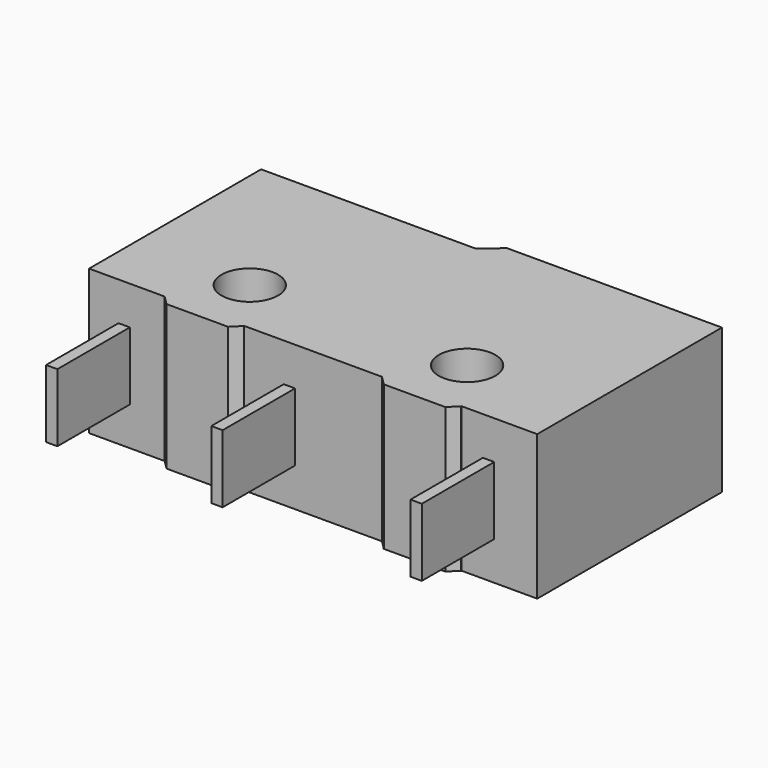
from build123d import *

# Parameters (mm, degrees)
CYLINDER021_R          = 1.25
CYLINDER021_DEPTH      = 10
CYLINDER021_ROLL_ANGLE = 90
PAD018_DEPTH           = 6.4
BOX034_W               = 0.5
BOX034_H               = 3
BOX034_DEPTH           = 4
BOX032_W               = 0.5
BOX032_H               = 3
BOX032_DEPTH           = 4
BOX033_W               = 0.5
BOX033_H               = 3
BOX033_DEPTH           = 4
BOX035_W               = 3.5
BOX035_H               = 6.4
BOX035_DEPTH           = 0.4
CHAMFER017_SIZE        = 0.39
CHAMFER016_SIZE        = 0.39
BOX031_W               = 3.5
BOX031_H               = 6.4
BOX031_DEPTH           = 0.4
CHAMFER018_SIZE        = 0.39
PAD017_DEPTH           = 3.8
FUSION020_ROLL_ANGLE   = -90


with BuildPart() as cylinder021:
    # Cylinder021 → Cylinder021 (new body)
    with BuildSketch(Plane.XY):
        Circle(CYLINDER021_R)
    extrude(amount=CYLINDER021_DEPTH)


with BuildPart() as cylinder021_1:
    # Cylinder021 roll: moved
    add(cylinder021.part.rotate(Axis((0, 0, 0), (1, 0, 0)), CYLINDER021_ROLL_ANGLE))


with BuildPart() as cylinder021_2:
    # Cylinder021 placement: moved
    add(cylinder021_1.part.moved(Location((-4.8, 2, 2.5))))


with BuildPart() as part_mirroring005:
    # Part__Mirroring005: instance of Cylinder021
    add(cylinder021_2.part.mirror(Plane(origin=(0, 0, 0), x_dir=(0, -1, 0), z_dir=(1, 0, 0))))


with BuildPart() as cut029:
    # Sketch032 → Pad018 (new body)
    with BuildSketch(Plane.XZ):
        Polygon((-9.9, 0), (9.9, 0), (9.9, 9.5), (0.4, 9.5), (-0.4, 10.2), (-9.9, 10.2), align=None)
    extrude(amount=PAD018_DEPTH)

    # Cut028: cut Cylinder021
    add(cylinder021_2.part, mode=Mode.SUBTRACT)

    # Cut029: cut Part__Mirroring005
    add(part_mirroring005.part, mode=Mode.SUBTRACT)


with BuildPart() as kostka020:
    # Box034 → Box034 (new body)
    with BuildSketch(Plane(origin=(0.8, -4.7, -4), x_dir=(1, 0, 0), z_dir=(0, 0, 1))):
        with Locations((0.25, 1.5)):
            Rectangle(BOX034_W, BOX034_H)
    extrude(amount=BOX034_DEPTH)


with BuildPart() as kostka018:
    # Box032 → Box032 (new body)
    with BuildSketch(Plane(origin=(8.1, -4.7, -4), x_dir=(1, 0, 0), z_dir=(0, 0, 1))):
        with Locations((0.25, 1.5)):
            Rectangle(BOX032_W, BOX032_H)
    extrude(amount=BOX032_DEPTH)


with BuildPart() as fusion019:
    # Box033 → Box033 (new body)
    with BuildSketch(Plane(origin=(-8, -4.7, -4), x_dir=(1, 0, 0), z_dir=(0, 0, 1))):
        with Locations((0.25, 1.5)):
            Rectangle(BOX033_W, BOX033_H)
    extrude(amount=BOX033_DEPTH)

    # Fusion019: union Kostka020, Kostka018
    add(kostka020.part)
    add(kostka018.part)


with BuildPart() as chamfer016:
    # Box035 → Box035 (new body)
    with BuildSketch(Plane(origin=(-6.55, -6.4, -0.4), x_dir=(1, 0, 0), z_dir=(0, 0, 1))):
        with Locations((1.75, 3.2)):
            Rectangle(BOX035_W, BOX035_H)
    extrude(amount=BOX035_DEPTH)

    # Chamfer017
    chamfer017_edges = [chamfer016.edges().sort_by_distance(p)[0] for p in [
        (-6.55, -3.2, -0.4),
    ]]
    chamfer(chamfer017_edges, length=CHAMFER017_SIZE)

    # Chamfer016
    chamfer016_edges = [chamfer016.edges().sort_by_distance(p)[0] for p in [
        (-3.05, -3.2, -0.4),
    ]]
    chamfer(chamfer016_edges, length=CHAMFER016_SIZE)


with BuildPart() as fusion021:
    # Box031 → Box031 (new body)
    with BuildSketch(Plane(origin=(3.05, -6.4, -0.4), x_dir=(1, 0, 0), z_dir=(0, 0, 1))):
        with Locations((1.75, 3.2)):
            Rectangle(BOX031_W, BOX031_H)
    extrude(amount=BOX031_DEPTH)

    # Chamfer018
    chamfer018_edges = [fusion021.edges().sort_by_distance(p)[0] for p in [
        (3.05, -3.2, -0.4),
        (6.55, -3.2, -0.4),
    ]]
    chamfer(chamfer018_edges, length=CHAMFER018_SIZE)

    # Fusion021: union Chamfer016
    add(chamfer016.part)


with BuildPart() as fusion020:
    # Sketch029 → Pad017 (new body)
    with BuildSketch(Plane.XZ):
        Polygon((-7.199301, 11.401983), (9.800699, 11.401983), (9.800699, 11.201983), (-6.999301, 11.201983), (-6.999301, 10.201983), (-7.199301, 10.201983), align=None)
    extrude(amount=PAD017_DEPTH)


with BuildPart() as fusion020_1:
    # Body005 placement: moved
    add(fusion020.part.moved(Location((0, -1.3, 0))))

    # Fusion020: union Cut029, Fusion019, Fusion021
    add(cut029.part)
    add(fusion019.part)
    add(fusion021.part)


with BuildPart() as fusion020_2:
    # Fusion020 roll: moved
    add(fusion020_1.part.rotate(Axis((0, 0, 0), (1, 0, 0)), FUSION020_ROLL_ANGLE))


with BuildPart() as fusion020_3:
    # Fusion020 placement: moved
    add(fusion020_2.part.moved(Location((0, 36, 66))))


with BuildPart() as obj1:
    # Part__Mirroring004: instance of Fusion020
    add(fusion020_3.part.mirror(Plane(origin=(0, 0, 0), x_dir=(0, -1, 0), z_dir=(1, 0, 0))))


with BuildPart() as obj1_1:
    # Part__Mirroring004 placement: moved
    add(obj1.part.moved(Location((-7, -16.2, -54.2))))


solid = obj1_1.part
